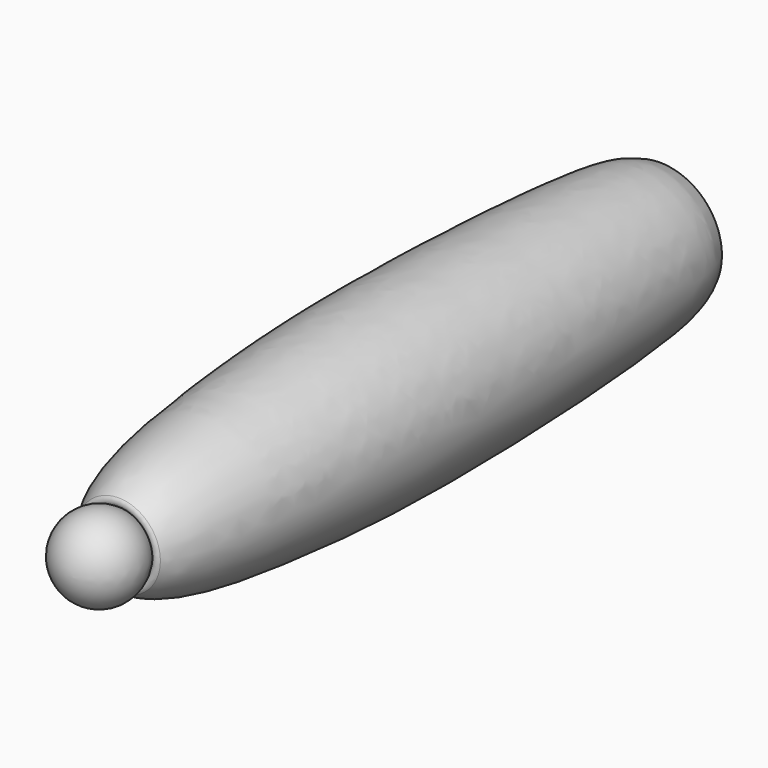
from build123d import *

# Parameters (mm, degrees)
FILLET077_R = 3
FILLET078_R = 3


with BuildPart() as part:
    # Sketch156 → Revolution081 (revolve)
    with BuildSketch(Plane.XY):
        with BuildLine():
            Line((0, 0), (0, -428.766235))
            add(Edge.make_bspline(
                [(0, 0), (37.127547, 3.058324), (47.193909, -33.616211), (53.813536, -199.691265), (50.270172, -320.959738), (33.178696, -440.435144), (0, -428.766235)],
                knots=[0, 0, 0, 0, 0.25, 0.5, 0.75, 1, 1, 1, 1], degree=3))
        make_face()
    revolve(axis=Axis((0, 0, 0), (0, 1, 0)))

    # Sketch157 → Groove075 (revolve, cut)
    with BuildSketch(Plane.XY):
        with BuildLine():
            Line((0, 35), (0, -35))
            ThreePointArc((0, -35), (35, 0), (0, 35))
        make_face()
    revolve(axis=Axis((0, 0, 0), (0, 1, 0)), mode=Mode.SUBTRACT)

    # Fillet077
    fillet077_edges = [part.edges().sort_by_distance(p)[0] for p in [
        (-33.812554, -9.039423, 0),
    ]]
    fillet(fillet077_edges, radius=FILLET077_R)

    # Sketch158 → Groove076 (revolve, cut)
    with BuildSketch(Plane.XY):
        with BuildLine():
            Line((0, -410), (0, -460))
            ThreePointArc((0, -460), (25, -435), (0, -410))
        make_face()
    revolve(axis=Axis((0, 0, 0), (0, 1, 0)), mode=Mode.SUBTRACT)

    # Fillet078
    fillet078_edges = [part.edges().sort_by_distance(p)[0] for p in [
        (-22.332538, -423.763553, 0),
    ]]
    fillet(fillet078_edges, radius=FILLET078_R)

    # Sketch158 → Revolution082 (revolve)
    with BuildSketch(Plane.XY):
        with BuildLine():
            Line((0, -410), (0, -460))
            ThreePointArc((0, -460), (25, -435), (0, -410))
        make_face()
    revolve(axis=Axis((0, 0, 0), (0, 1, 0)))


with BuildPart() as part_1:
    # Body047 placement: moved
    add(part.part.moved(Location((-75, 497, 28.5))))


solid = part_1.part
